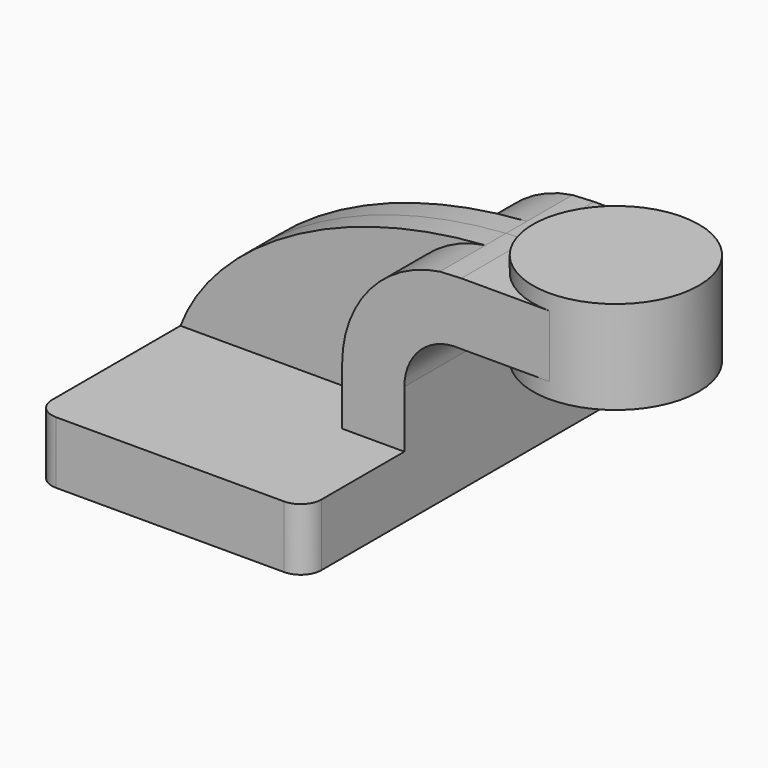
from build123d import *

# Parameters (mm, degrees)
F1_DEPTH = 63.5
F2_DEPTH = 25.4
F3_DEPTH = 7.9375
F5_R     = 6.35


with BuildPart() as f1:
    # F0 (on Front) → F1 (new body, symmetric)
    with BuildSketch(Plane.XZ):
        Polygon((-41.275, 9.525), (-41.275, -9.525), (41.275, -9.525), (41.275, 9.525), (22.225, 9.525), align=None)
    extrude(amount=F1_DEPTH, both=True)

    # F0 (on Front) → F2 (join, symmetric)
    with BuildSketch(Plane.XZ):
        with BuildLine():
            Line((22.225, 9.525), (41.275, 9.525))
            Line((41.275, 9.525), (41.275, 27.0354386152))
            ThreePointArc((41.275, 27.0354386152), (46.3048805337, 38.6284972609), (58.2071585843, 42.8752))
            Line((58.2071585843, 42.8752), (60.325, 42.8752))
            Line((60.325, 42.8752), (60.325, 61.9252))
            Line((60.325, 61.9252), (58.718494664, 61.9252))
            add(Edge.make_bspline(
                [(52.1296454234, 61.5977253585), (54.3011827008, 61.7480105937), (56.4978888968, 61.8577059663), (58.718494664, 61.9252)],
                knots=[108.0061657204, 108.0061657204, 108.0061657204, 108.0061657204, 112.8914520022, 112.8914520022, 112.8914520022, 112.8914520022], degree=3))
            ThreePointArc((52.1296454234, 61.5977253585), (30.7389084986, 49.8873503669), (22.225, 27.0354386152))
            Line((22.225, 27.0354386152), (22.225, 9.525))
        make_face()
        Polygon((85.725, 61.9252), (60.325, 61.9252), (60.325, 42.8752), (85.725, 42.8752), (85.725, 52.3875), align=None)
    extrude(amount=F2_DEPTH, both=True)

    # F0 (on Front) → F3 (join, symmetric)
    with BuildSketch(Plane.XZ):
        with BuildLine():
            add(Edge.make_bspline(
                [(-41.275, 9.525), (-31.5868860998, 35.1128955364), (4.1202962213, 58.2751499583), (52.1296454234, 61.5977253585)],
                knots=[0, 0, 0, 0, 108.0061657204, 108.0061657204, 108.0061657204, 108.0061657204], degree=3))
            Line((-41.275, 9.525), (22.225, 9.525))
            Line((22.225, 9.525), (22.225, 27.0354386152))
            ThreePointArc((22.225, 27.0354386152), (30.7389084986, 49.8873503669), (52.1296454234, 61.5977253585))
        make_face()
    extrude(amount=F3_DEPTH, both=True)

    # F0 (on Front) → F4 (revolve)
    with BuildSketch(Plane.XZ):
        Polygon((85.725, 66.675), (85.725, 61.9252), (85.725, 52.3875), (85.725, 42.8752), (85.725, 38.1), (111.125, 38.1), (111.125, 66.675), align=None)
    revolve(axis=Axis((85.725, 0, 52.3875), (0, 0, -1)))

    # F5
    f5_edges = [f1.edges().sort_by_distance(p)[0] for p in [
        (-41.275, -63.5, 0),
        (41.275, -63.5, 0),
        (41.275, 63.5, 0),
        (-41.275, 63.5, 0),
    ]]
    fillet(f5_edges, radius=F5_R)


solid = f1.part
